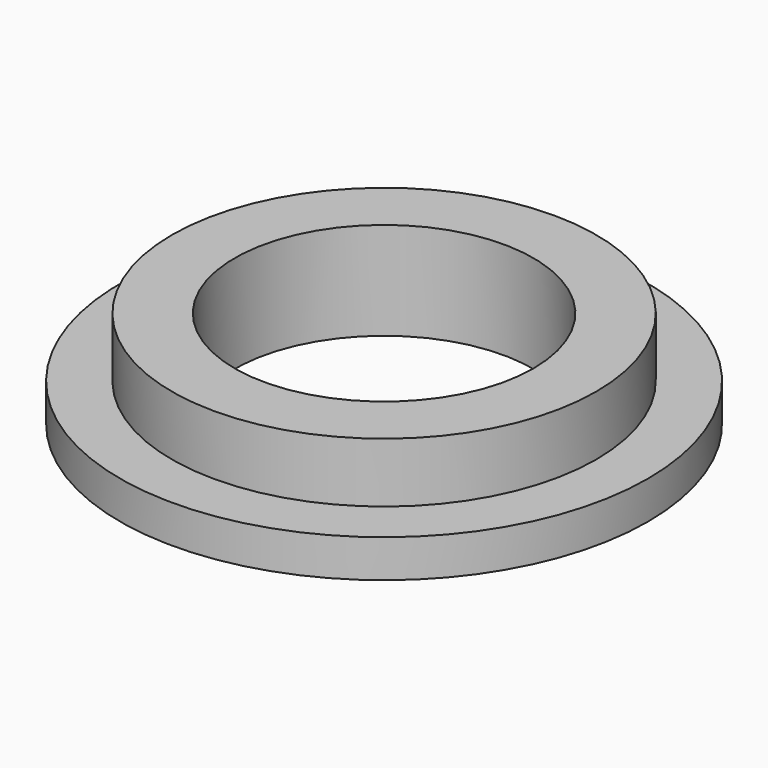
from build123d import *

# Parameters (mm, degrees)
F0_R     = 33.655
F1_DEPTH = 4.826
F2_R     = 27.051
F3_DEPTH = 7.62
F4_R     = 19.05
F5_DEPTH = 12.447


with BuildPart() as f1:
    # F0 (on Top) → F1 (new body)
    with BuildSketch(Plane.XY):
        Circle(F0_R)
    extrude(amount=-F1_DEPTH)

    # F2 (on Top) → F3 (join)
    with BuildSketch(Plane.XY):
        Circle(F2_R)
    extrude(amount=F3_DEPTH)

    # F4 (on face) → F5 (cut, through all)
    with BuildSketch(Plane.XY.offset(7.62)):
        Circle(F4_R)
    extrude(amount=-F5_DEPTH, mode=Mode.SUBTRACT)


solid = f1.part
